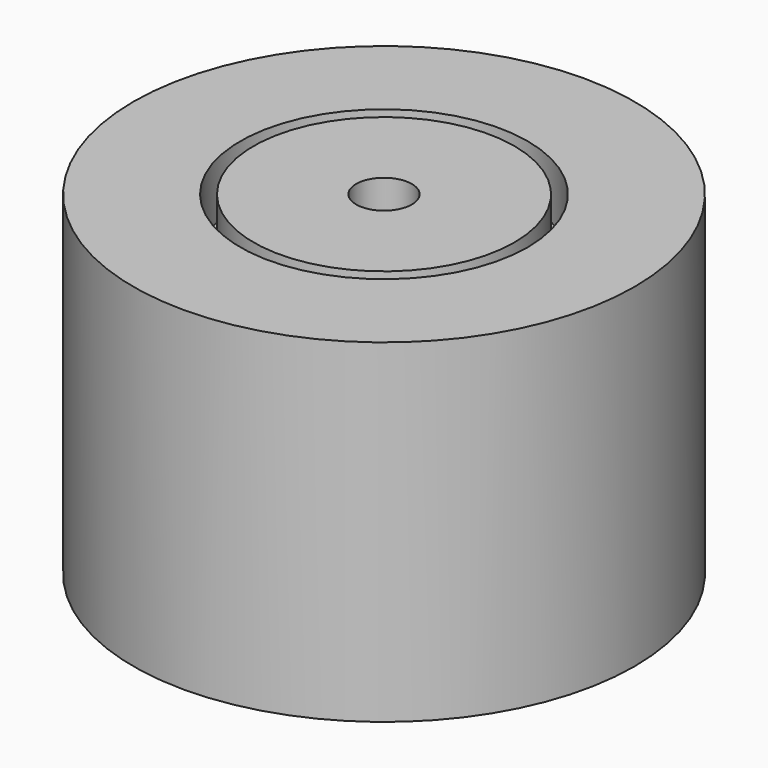
from build123d import *

# Parameters (mm, degrees)
F0_W     = 6.35
F0_H     = 24.384
F3_COUNT = 6


with BuildPart() as f1:
    # F0 (on Front) → F1 (revolve)
    with BuildSketch(Plane.XZ):
        with Locations((19.05, -19.05)):
            Rectangle(F0_W, F0_H)
    revolve(axis=Axis((15.875, 0, -19.05), (0, 0, 1)))


with BuildPart() as f3_1:
    # F3: instance of F1
    add(f1.part.rotate(Axis((0, 0, -18.4658), (0, 0, 1)), 1 * 360 / F3_COUNT))


with BuildPart() as f3_2:
    # F3: instance of F1
    add(f1.part.rotate(Axis((0, 0, -18.4658), (0, 0, 1)), 2 * 360 / F3_COUNT))


with BuildPart() as f3_3:
    # F3: instance of F1
    add(f1.part.rotate(Axis((0, 0, -18.4658), (0, 0, 1)), 3 * 360 / F3_COUNT))


with BuildPart() as f3_4:
    # F3: instance of F1
    add(f1.part.rotate(Axis((0, 0, -18.4658), (0, 0, 1)), 4 * 360 / F3_COUNT))


with BuildPart() as f3_5:
    # F3: instance of F1
    add(f1.part.rotate(Axis((0, 0, -18.4658), (0, 0, 1)), 5 * 360 / F3_COUNT))


with BuildPart() as f4:
    # F0 (on Front) → F4 (revolve)
    with BuildSketch(Plane.XZ):
        Polygon((14.876712, 0), (3.175, 0), (3.175, -6.35), (3.175, -31.75), (3.175, -38.1), (9.017, -38.1), (11.701712, -38.1), (11.701712, -31.75), (9.017, -31.75), (9.017, -6.35), (14.876712, -6.35), align=None)
        Polygon((28.575, 0), (16.383, 0), (16.383, -6.35), (22.733, -6.35), (22.733, -31.75), (19.558, -31.75), (19.558, -38.1), (22.733, -38.1), (28.575, -38.1), align=None)
    revolve(axis=Axis((0, 0, -11.251677), (0, 0, -1)))


solid = Compound([f1.part, f3_1.part, f3_2.part, f3_3.part, f3_4.part, f3_5.part, f4.part])
